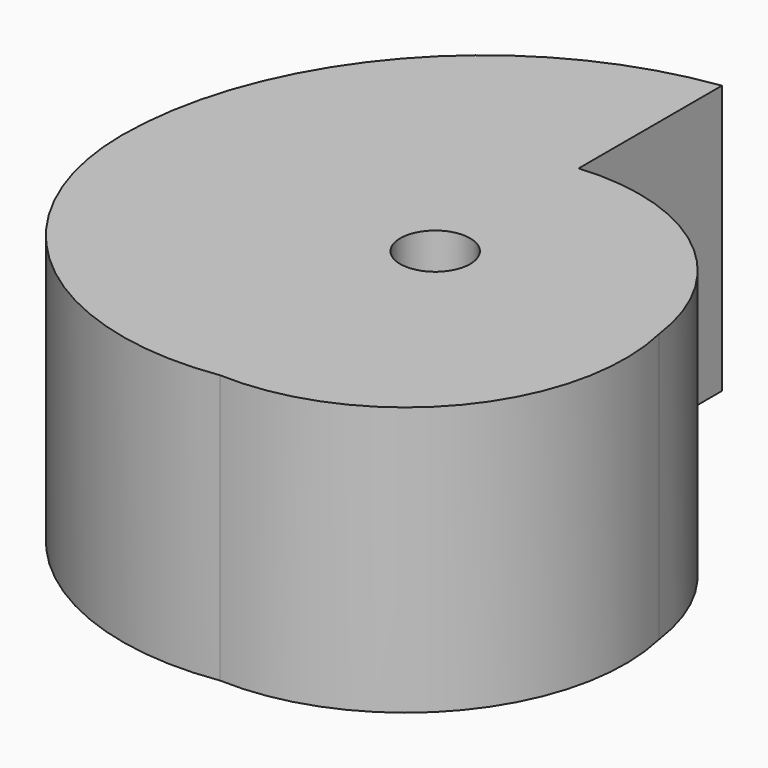
from build123d import *

# Parameters (mm, degrees)
F1_DEPTH = 19.05
F2_R     = 2.4765
F3_DEPTH = 25.4


with BuildPart() as f1:
    # F0 (on Top) → F1 (new body)
    with BuildSketch(Plane.XY):
        with BuildLine():
            Line((0, -19.05), (0, 0))
            Line((0, 0), (-22.225, 0))
            ThreePointArc((-22.225, 0), (-15.472729, -14.611933), (0, -19.05))
        make_face()
        with BuildLine():
            Line((-22.225, 0), (0, 0))
            Line((0, 0), (0, 12.7))
            Line((0, 12.7), (0, 25.4))
            ThreePointArc((0, 25.4), (-15.869673, 16.862526), (-22.225, 0))
        make_face()
        with BuildLine():
            Line((15.875, 0), (0, 0))
            Line((0, 0), (0, -19.05))
            ThreePointArc((0, -19.05), (12.656702, -13.457669), (15.875, 0))
        make_face()
        with BuildLine():
            Line((0, 12.7), (0, 0))
            Line((0, 0), (15.875, 0))
            ThreePointArc((15.875, 0), (10.502762, 9.556577), (0, 12.7))
        make_face()
    extrude(amount=F1_DEPTH)

    # F2 (on face) → F3 (cut)
    with BuildSketch(Plane.XY.offset(19.05)):
        Circle(F2_R)
    extrude(amount=-F3_DEPTH, mode=Mode.SUBTRACT)


solid = f1.part
